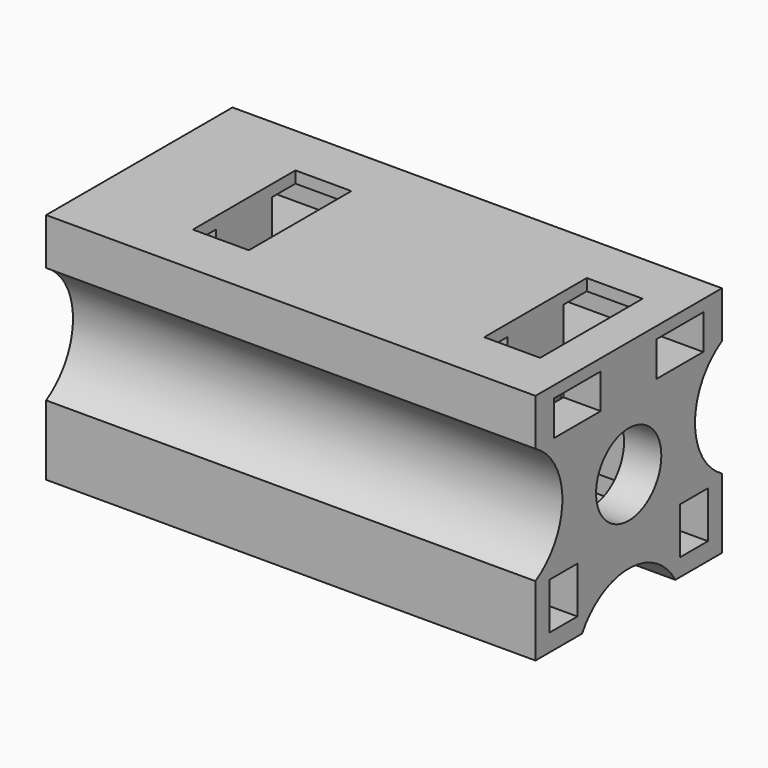
from build123d import *

# Parameters (mm, degrees)
SKETCH_R        = 1.75
PAD_DEPTH       = 21
SKETCH002_W     = 5.5
SKETCH002_H     = 2.4
POCKET_DEPTH    = 8
SKETCH003_R     = 3.1
POCKET001_DEPTH = 3
SKETCH007_W     = 1.5
SKETCH007_H     = 2
SKETCH007_W_2   = 2.5
SKETCH007_H_2   = 1.5
POCKET002_DEPTH = 21.001


with BuildPart() as part:
    # Sketch → Pad (new body)
    with BuildSketch(Plane.YZ):
        with BuildLine():
            Line((-5, 8), (-5, 10))
            Line((-5, 10), (5, 10))
            Line((5, 10), (5, 8))
            ThreePointArc((5, 8), (3.556624, 5.5), (5, 3))
            Line((5, 3), (5, 0))
            Line((5, 0), (2.5, 0))
            ThreePointArc((2.5, 0), (0, 1.443376), (-2.5, 0))
            Line((-2.5, 0), (-5, 0))
            Line((-5, 0), (-5, 3))
            ThreePointArc((-5, 3), (-3.556624, 5.5), (-5, 8))
        make_face()
        with Locations((0, 5)):
            Circle(SKETCH_R, mode=Mode.SUBTRACT)
    extrude(amount=PAD_DEPTH)

    # Sketch002 → Pocket (cut)
    with BuildSketch(Plane(origin=(0, 0, 10), x_dir=(0, -1, 0), z_dir=(0, 0, 1))):
        with Locations((0, 5.7)):
            Rectangle(SKETCH002_W, SKETCH002_H)
        with Locations((0, 18.2)):
            Rectangle(SKETCH002_W, SKETCH002_H)
    extrude(amount=-POCKET_DEPTH, mode=Mode.SUBTRACT)

    # Sketch003 (on Face4 of Pocket) → Pocket001 (cut)
    with BuildSketch(Plane(origin=(0, 0, 0), x_dir=(0, 1, 0), z_dir=(-1, 0, 0))):
        with Locations((0, -5)):
            Circle(SKETCH003_R)
    extrude(amount=-POCKET001_DEPTH, mode=Mode.SUBTRACT)

    # Sketch007 (on Face4 of Pocket001) → Pocket002 (cut, through all)
    with BuildSketch(Plane(origin=(0, 0, 0), x_dir=(0, 1, 0), z_dir=(-1, 0, 0))):
        with Locations((-3.5, -1.75)):
            Rectangle(SKETCH007_W, SKETCH007_H)
        with Locations((3.5, -1.75)):
            Rectangle(SKETCH007_W, SKETCH007_H)
        with Locations((-2.75, -8.75)):
            Rectangle(SKETCH007_W_2, SKETCH007_H_2)
        with Locations((2.75, -8.75)):
            Rectangle(SKETCH007_W_2, SKETCH007_H_2)
    extrude(amount=-POCKET002_DEPTH, mode=Mode.SUBTRACT)


solid = part.part
